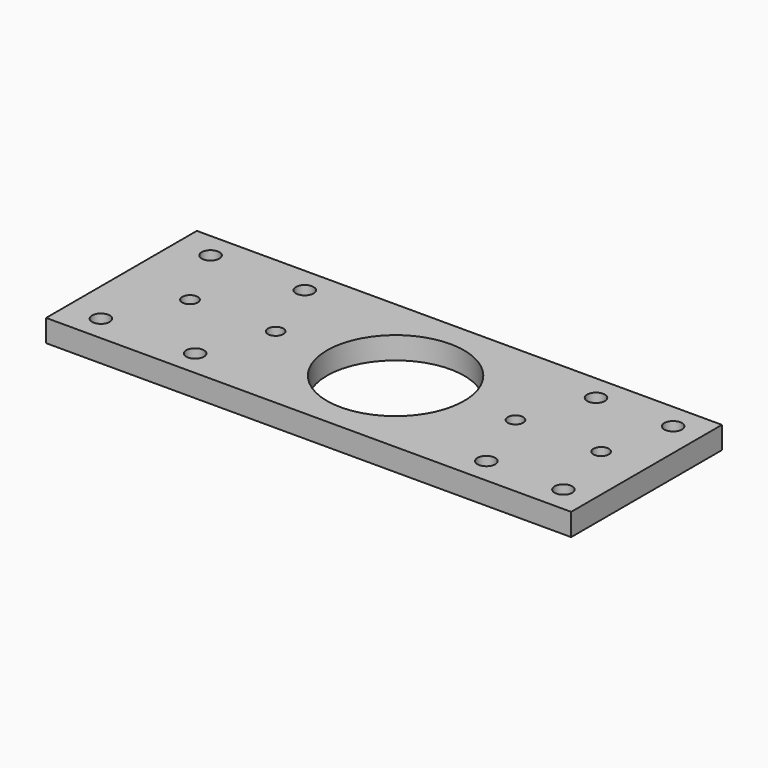
from build123d import *

# Parameters (mm, degrees)
F0_W           = 306.5
F0_H           = 110
F1_DEPTH       = 13
F2_D           = 9
F2_CSINK_D     = 11.2
F2_CSINK_ANGLE = 90
F3_D           = 80
F4_D           = 10.3


with BuildPart() as f1:
    # F0 (on Top) → F1 (new body)
    with BuildSketch(Plane.XY):
        Rectangle(F0_W, F0_H)
    extrude(amount=F1_DEPTH)

    # F2 (through all)
    with Locations(Plane(origin=(0, 0, 0), x_dir=(1, 0, 0), z_dir=(0, 0, -1))):
        with Locations((-113.25, 0), (-63.25, 0), (76.75, 0), (126.75, 0)):
            CounterSinkHole(F2_D / 2, F2_CSINK_D / 2, counter_sink_angle=F2_CSINK_ANGLE)

    # F3 (through all)
    with Locations(Plane(origin=(0, 0, 0), x_dir=(1, 0, 0), z_dir=(0, 0, -1))):
        with Locations((6.75, 0)):
            Hole(F3_D / 2)

    # F4 (through all)
    with Locations(Plane(origin=(0, 0, 0), x_dir=(1, 0, 0), z_dir=(0, 0, -1))):
        with Locations((-133.25, 40), (-78.25, 40), (-133.25, -40), (-78.25, -40), (91.75, 40), (136.75, 40), (91.75, -40), (136.75, -40)):
            Hole(F4_D / 2)


solid = f1.part
